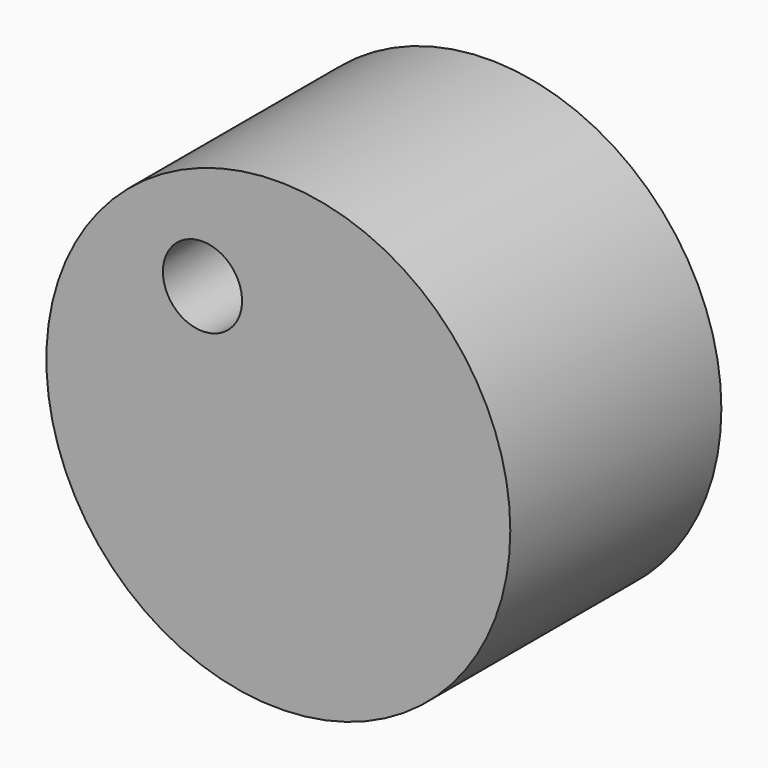
from build123d import *

# Parameters (mm, degrees)
F0_R     = 43.959775
F1_DEPTH = 25
F3_D     = 15


with BuildPart() as f1:
    # F0 (on Front) → F1 (new body, symmetric)
    with BuildSketch(Plane.XZ):
        Circle(F0_R)
    extrude(amount=F1_DEPTH, both=True)

    # F3 (through all)
    with Locations(Plane.XZ.offset(25)):
        with Locations((-14.375001, 21.785716)):
            Hole(F3_D / 2)


solid = f1.part
